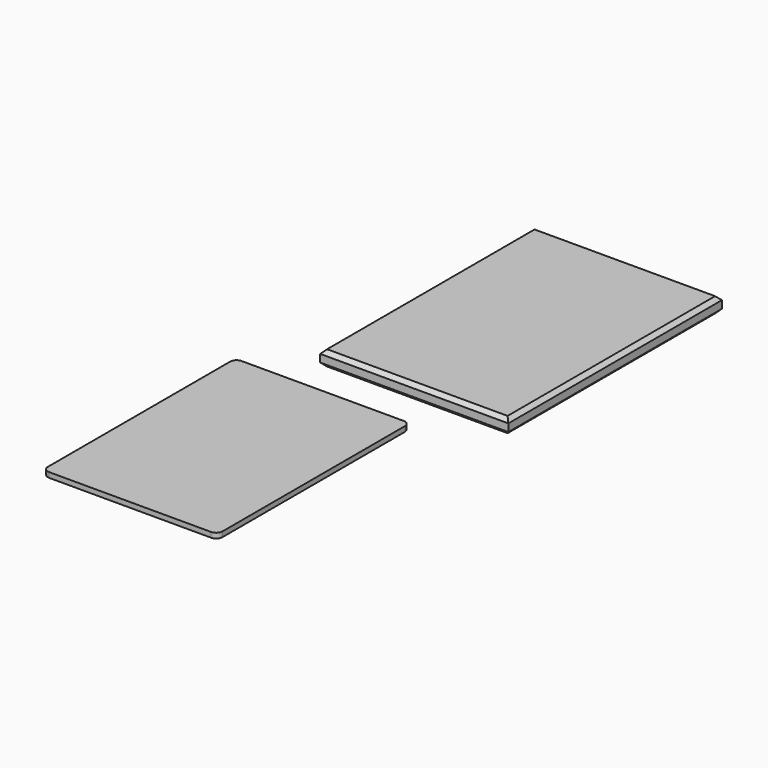
from build123d import *

# Parameters (mm, degrees)
F0_W     = 148
F0_H     = 210
F1_DEPTH = 6
F2_SIZE  = 3
F4_DEPTH = 4
F6_DEPTH = 4


with BuildPart() as f1:
    # F0 (on Top) → F1 (new body, symmetric)
    with BuildSketch(Plane.XY):
        Rectangle(F0_W, F0_H)
    extrude(amount=F1_DEPTH, both=True)

    # F2
    f2_edges = [f1.edges().sort_by_distance(p)[0] for p in [
        (74, 0, 6),
        (74, 0, -6),
        (0, -105, -6),
        (0, -105, 6),
        (-74, 0, 6),
        (-74, 0, -6),
        (0, 105, -6),
        (0, 105, 6),
    ]]
    chamfer(f2_edges, length=F2_SIZE)

    # F3 (on face) → F4 (cut)
    with BuildSketch(Plane(origin=(0, 0, -6), x_dir=(1, 0, 0), z_dir=(0, 0, -1))):
        with BuildLine():
            Line((58.706875, 94.630778), (-58.706875, 94.630778))
            ThreePointArc((-58.706875, 94.630778), (-62.242409, 93.166312), (-63.706875, 89.630778))
            Line((-63.706875, 89.630778), (-63.706875, -89.630778))
            ThreePointArc((-63.706875, -89.630778), (-62.242409, -93.166312), (-58.706875, -94.630778))
            Line((-58.706875, -94.630778), (58.706875, -94.630778))
            ThreePointArc((58.706875, -94.630778), (62.242409, -93.166312), (63.706875, -89.630778))
            Line((63.706875, -89.630778), (63.706875, 89.630778))
            ThreePointArc((63.706875, 89.630778), (62.242409, 93.166312), (58.706875, 94.630778))
        make_face()
    extrude(amount=-F4_DEPTH, mode=Mode.SUBTRACT)


with BuildPart() as f6:
    # F5 (on face) → F6 (new body)
    with BuildSketch(Plane.XY.offset(6)):
        with BuildLine():
            Line((30.027316, -153.073728), (-97.386434, -153.073728))
            ThreePointArc((-97.386434, -153.073728), (-100.921968, -154.538194), (-102.386434, -158.073728))
            Line((-102.386434, -158.073728), (-102.386434, -337.335284))
            ThreePointArc((-102.386434, -337.335284), (-100.921968, -340.870818), (-97.386434, -342.335284))
            Line((-97.386434, -342.335284), (30.027316, -342.335284))
            ThreePointArc((30.027316, -342.335284), (33.56285, -340.870818), (35.027316, -337.335284))
            Line((35.027316, -337.335284), (35.027316, -158.073728))
            ThreePointArc((35.027316, -158.073728), (33.56285, -154.538194), (30.027316, -153.073728))
        make_face()
    extrude(amount=F6_DEPTH)


solid = Compound([f1.part, f6.part])
